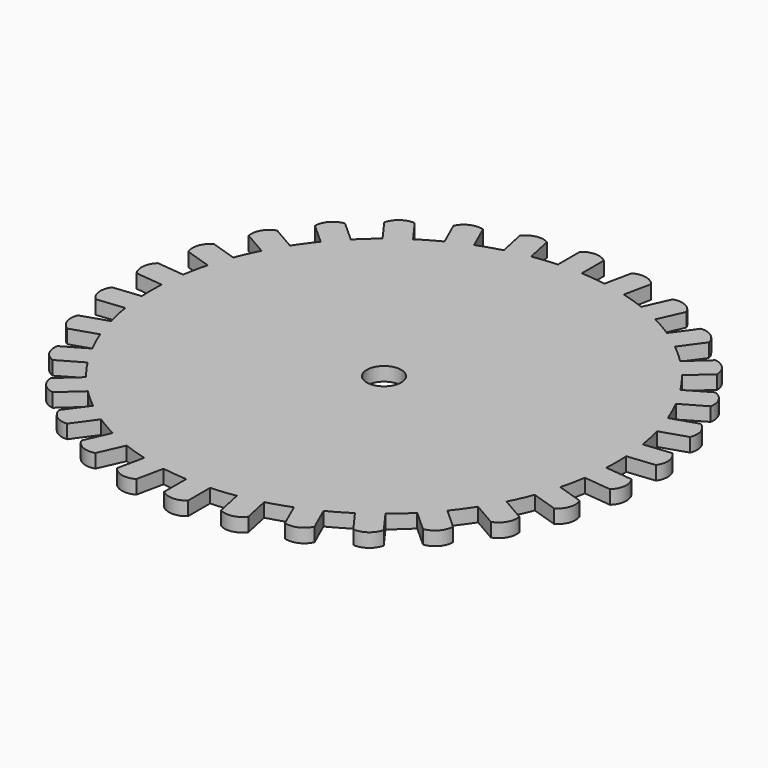
from build123d import *

# Parameters (mm, degrees)
F0_R     = 6.35
F1_DEPTH = 5.08


with BuildPart() as f1:
    # F0 (on Top) → F1 (new body)
    with BuildSketch(Plane.XY):
        with BuildLine():
            Line((-4.392071, 95.772413), (-4.392071, 85.612413))
            ThreePointArc((-4.392071, 85.612413), (-8.960703, 85.255389), (-13.503728, 84.65474))
            Line((-13.503728, 84.65474), (-15.616111, 94.592719))
            ThreePointArc((-15.616111, 94.592719), (-20.252225, 95.279225), (-24.208298, 92.766394))
            Line((-24.208298, 92.766394), (-22.095915, 82.828414))
            ThreePointArc((-22.095915, 82.828414), (-26.490482, 81.52932), (-30.80935, 79.997247))
            Line((-30.80935, 79.997247), (-34.941794, 89.278869))
            ThreePointArc((-34.941794, 89.278869), (-39.61933, 88.986471), (-42.966506, 85.706037))
            Line((-42.966506, 85.706037), (-38.834062, 76.424415))
            ThreePointArc((-38.834062, 76.424415), (-42.8625, 74.240028), (-46.768454, 71.843492))
            Line((-46.768454, 71.843492), (-52.740352, 80.063104))
            ThreePointArc((-52.740352, 80.063104), (-57.25488, 78.804582), (-59.846872, 74.899916))
            Line((-59.846872, 74.899916), (-53.874974, 66.680303))
            ThreePointArc((-53.874974, 66.680303), (-57.361221, 63.70609), (-60.683553, 60.549831))
            Line((-60.683553, 60.549831), (-68.233905, 67.348198))
            ThreePointArc((-68.233905, 67.348198), (-72.388117, 65.178554), (-74.111642, 60.820309))
            Line((-74.111642, 60.820309), (-66.561291, 54.021942))
            ThreePointArc((-66.561291, 54.021942), (-69.352982, 50.387891), (-71.94649, 46.609851))
            Line((-71.94649, 46.609851), (-80.745308, 51.689851))
            ThreePointArc((-80.745308, 51.689851), (-84.357647, 48.70391), (-85.137378, 44.082562))
            Line((-85.137378, 44.082562), (-76.33856, 39.002562))
            ThreePointArc((-76.33856, 39.002562), (-78.313684, 34.867499), (-80.065019, 30.632798))
            Line((-80.065019, 30.632798), (-89.727753, 33.772411))
            ThreePointArc((-89.727753, 33.772411), (-92.640342, 30.100672), (-92.442202, 25.418196))
            Line((-92.442202, 25.418196), (-82.779468, 22.278583))
            ThreePointArc((-82.779468, 22.278583), (-83.851703, 17.82323), (-84.684323, 13.316944))
            Line((-84.684323, 13.316944), (-94.788666, 14.378954))
            ThreePointArc((-94.788666, 14.378954), (-96.87421, 10.18189), (-95.706859, 5.642933))
            Line((-95.706859, 5.642933), (-85.602516, 4.580924))
            ThreePointArc((-85.602516, 4.580924), (-85.725, 0), (-85.602516, -4.580924))
            Line((-85.602516, -4.580924), (-95.706859, -5.642933))
            ThreePointArc((-95.706859, -5.642933), (-96.87421, -10.18189), (-94.788666, -14.378954))
            Line((-94.788666, -14.378954), (-84.684323, -13.316944))
            ThreePointArc((-84.684323, -13.316944), (-83.851703, -17.82323), (-82.779468, -22.278583))
            Line((-82.779468, -22.278583), (-92.442202, -25.418196))
            ThreePointArc((-92.442202, -25.418196), (-92.640342, -30.100672), (-89.727753, -33.772411))
            Line((-89.727753, -33.772411), (-80.065019, -30.632798))
            ThreePointArc((-80.065019, -30.632798), (-78.313684, -34.867499), (-76.33856, -39.002562))
            Line((-76.33856, -39.002562), (-85.137378, -44.082562))
            ThreePointArc((-85.137378, -44.082562), (-84.357647, -48.70391), (-80.745308, -51.689851))
            Line((-80.745308, -51.689851), (-71.94649, -46.609851))
            ThreePointArc((-71.94649, -46.609851), (-69.352982, -50.387891), (-66.561291, -54.021942))
            Line((-66.561291, -54.021942), (-74.111642, -60.820309))
            ThreePointArc((-74.111642, -60.820309), (-72.388117, -65.178554), (-68.233905, -67.348198))
            Line((-68.233905, -67.348198), (-60.683553, -60.549831))
            ThreePointArc((-60.683553, -60.549831), (-57.361221, -63.70609), (-53.874974, -66.680303))
            Line((-53.874974, -66.680303), (-59.846872, -74.899916))
            ThreePointArc((-59.846872, -74.899916), (-57.25488, -78.804582), (-52.740352, -80.063104))
            Line((-52.740352, -80.063104), (-46.768454, -71.843492))
            ThreePointArc((-46.768454, -71.843492), (-42.8625, -74.240028), (-38.834062, -76.424415))
            Line((-38.834062, -76.424415), (-42.966506, -85.706037))
            ThreePointArc((-42.966506, -85.706037), (-39.61933, -88.986471), (-34.941794, -89.278869))
            Line((-34.941794, -89.278869), (-30.80935, -79.997247))
            ThreePointArc((-30.80935, -79.997247), (-26.490482, -81.52932), (-22.095915, -82.828414))
            Line((-22.095915, -82.828414), (-24.208298, -92.766394))
            ThreePointArc((-24.208298, -92.766394), (-20.252225, -95.279225), (-15.616111, -94.592719))
            Line((-15.616111, -94.592719), (-13.503728, -84.65474))
            ThreePointArc((-13.503728, -84.65474), (-8.960703, -85.255389), (-4.392071, -85.612413))
            Line((-4.392071, -85.612413), (-4.392071, -95.772413))
            ThreePointArc((-4.392071, -95.772413), (0, -97.40782), (4.392071, -95.772413))
            Line((4.392071, -95.772413), (4.392071, -85.612413))
            ThreePointArc((4.392071, -85.612413), (8.960703, -85.255389), (13.503728, -84.65474))
            Line((13.503728, -84.65474), (15.616111, -94.592719))
            ThreePointArc((15.616111, -94.592719), (20.252225, -95.279225), (24.208298, -92.766394))
            Line((24.208298, -92.766394), (22.095915, -82.828414))
            ThreePointArc((22.095915, -82.828414), (26.490482, -81.52932), (30.80935, -79.997247))
            Line((30.80935, -79.997247), (34.941794, -89.278869))
            ThreePointArc((34.941794, -89.278869), (39.61933, -88.986471), (42.966506, -85.706037))
            Line((42.966506, -85.706037), (38.834062, -76.424415))
            ThreePointArc((38.834062, -76.424415), (42.8625, -74.240028), (46.768454, -71.843492))
            Line((46.768454, -71.843492), (52.740352, -80.063104))
            ThreePointArc((52.740352, -80.063104), (57.25488, -78.804582), (59.846872, -74.899916))
            Line((59.846872, -74.899916), (53.874974, -66.680303))
            ThreePointArc((53.874974, -66.680303), (57.361221, -63.70609), (60.683553, -60.549831))
            Line((60.683553, -60.549831), (68.233905, -67.348198))
            ThreePointArc((68.233905, -67.348198), (72.388117, -65.178554), (74.111642, -60.820309))
            Line((74.111642, -60.820309), (66.561291, -54.021942))
            ThreePointArc((66.561291, -54.021942), (69.352982, -50.387891), (71.94649, -46.609851))
            Line((71.94649, -46.609851), (80.745308, -51.689851))
            ThreePointArc((80.745308, -51.689851), (84.357647, -48.70391), (85.137378, -44.082562))
            Line((85.137378, -44.082562), (76.33856, -39.002562))
            ThreePointArc((76.33856, -39.002562), (78.313684, -34.867499), (80.065019, -30.632798))
            Line((80.065019, -30.632798), (89.727753, -33.772411))
            ThreePointArc((89.727753, -33.772411), (92.640342, -30.100672), (92.442202, -25.418196))
            Line((92.442202, -25.418196), (82.779468, -22.278583))
            ThreePointArc((82.779468, -22.278583), (83.851703, -17.82323), (84.684323, -13.316944))
            Line((84.684323, -13.316944), (94.788666, -14.378954))
            ThreePointArc((94.788666, -14.378954), (96.87421, -10.18189), (95.706859, -5.642933))
            Line((95.706859, -5.642933), (85.602516, -4.580924))
            ThreePointArc((85.602516, -4.580924), (85.725, 0), (85.602516, 4.580924))
            Line((85.602516, 4.580924), (95.706859, 5.642933))
            ThreePointArc((95.706859, 5.642933), (96.87421, 10.18189), (94.788666, 14.378954))
            Line((94.788666, 14.378954), (84.684323, 13.316944))
            ThreePointArc((84.684323, 13.316944), (83.851703, 17.82323), (82.779468, 22.278583))
            Line((82.779468, 22.278583), (92.442202, 25.418196))
            ThreePointArc((92.442202, 25.418196), (92.640342, 30.100672), (89.727753, 33.772411))
            Line((89.727753, 33.772411), (80.065019, 30.632798))
            ThreePointArc((80.065019, 30.632798), (78.313684, 34.867499), (76.33856, 39.002562))
            Line((76.33856, 39.002562), (85.137378, 44.082562))
            ThreePointArc((85.137378, 44.082562), (84.357647, 48.70391), (80.745308, 51.689851))
            Line((80.745308, 51.689851), (71.94649, 46.609851))
            ThreePointArc((71.94649, 46.609851), (69.352982, 50.387891), (66.561291, 54.021942))
            Line((66.561291, 54.021942), (74.111642, 60.820309))
            ThreePointArc((74.111642, 60.820309), (72.388117, 65.178554), (68.233905, 67.348198))
            Line((68.233905, 67.348198), (60.683553, 60.549831))
            ThreePointArc((60.683553, 60.549831), (57.361221, 63.70609), (53.874974, 66.680303))
            Line((53.874974, 66.680303), (59.846872, 74.899916))
            ThreePointArc((59.846872, 74.899916), (57.25488, 78.804582), (52.740352, 80.063104))
            Line((52.740352, 80.063104), (46.768454, 71.843492))
            ThreePointArc((46.768454, 71.843492), (42.8625, 74.240028), (38.834062, 76.424415))
            Line((38.834062, 76.424415), (42.966506, 85.706037))
            ThreePointArc((42.966506, 85.706037), (39.61933, 88.986471), (34.941794, 89.278869))
            Line((34.941794, 89.278869), (30.80935, 79.997247))
            ThreePointArc((30.80935, 79.997247), (26.490482, 81.52932), (22.095915, 82.828414))
            Line((22.095915, 82.828414), (24.208298, 92.766394))
            ThreePointArc((24.208298, 92.766394), (20.252225, 95.279225), (15.616111, 94.592719))
            Line((15.616111, 94.592719), (13.503728, 84.65474))
            ThreePointArc((13.503728, 84.65474), (8.960703, 85.255389), (4.392071, 85.612413))
            Line((4.392071, 85.612413), (4.392071, 95.772413))
            ThreePointArc((4.392071, 95.772413), (0, 97.40782), (-4.392071, 95.772413))
        make_face()
        Circle(F0_R, mode=Mode.SUBTRACT)
    extrude(amount=F1_DEPTH)


solid = f1.part
